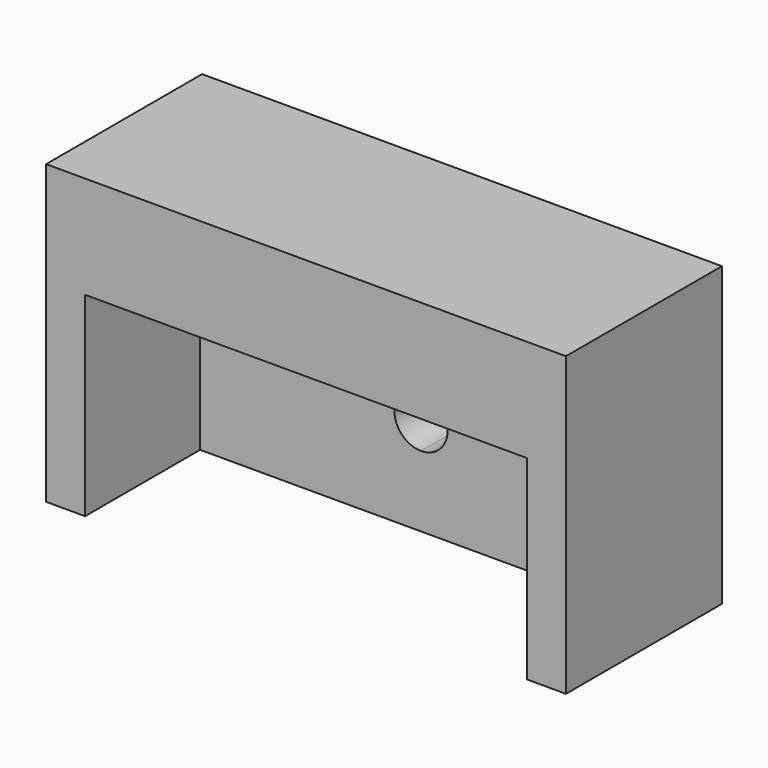
from build123d import *

# Parameters (mm, degrees)
F0_W     = 50.8
F0_H     = 19.05
F1_DEPTH = 10
F3_DEPTH = 6
F5_DEPTH = 19.05
F7_DEPTH = 5


with BuildPart() as f1:
    # F0 (on Top) → F1 (new body)
    with BuildSketch(Plane.XY):
        Rectangle(F0_W, F0_H)
    extrude(amount=F1_DEPTH)

    # F2 (on face) → F3 (cut)
    with BuildSketch(Plane(origin=(0, 0, 0), x_dir=(1, 0, 0), z_dir=(0, 0, -1))):
        with BuildLine():
            ThreePointArc((-12.875006, 0), (-16.050006, 3.175), (-19.225006, 0))
            Line((-19.225006, 0), (-12.875006, 0))
        make_face()
        with BuildLine():
            ThreePointArc((19.225006, 0), (16.050006, 3.175), (12.875006, 0))
            Line((12.875006, 0), (19.225006, 0))
        make_face()
        with BuildLine():
            Line((19.225006, 0), (12.875006, 0))
            ThreePointArc((12.875006, 0), (16.050006, -3.175), (19.225006, 0))
        make_face()
        with BuildLine():
            Line((-12.875006, 0), (-19.225006, 0))
            ThreePointArc((-19.225006, 0), (-16.050006, -3.175), (-12.875006, 0))
        make_face()
    extrude(amount=-F3_DEPTH, mode=Mode.SUBTRACT)

    # F4 (on face) → F5 (join)
    with BuildSketch(Plane(origin=(0, 0, 0), x_dir=(1, 0, 0), z_dir=(0, 0, -1))):
        Polygon((-25.4, -4.525), (-25.4, -9.525), (-2.5, -9.525), (2.5, -9.525), (25.4, -9.525), (25.4, -4.525), (25.4, 9.525), (21.59, 9.525), (21.59, -4.525), (-2.5, -4.525), (-21.59, -4.525), (-21.59, 9.525), (-25.4, 9.525), align=None)
    extrude(amount=F5_DEPTH)

    # F6 (on face) → F7 (cut, through all)
    with BuildSketch(Plane(origin=(0, 9.525, 0), x_dir=(-1, 0, 0), z_dir=(0, 1, 0))):
        with BuildLine():
            Line((0, -9.525), (2.6, -9.525))
            ThreePointArc((2.6, -9.525), (1.838478, -7.686522), (0, -6.925))
            Line((0, -6.925), (0, -9.525))
        make_face()
        with BuildLine():
            ThreePointArc((0, -12.125), (1.838478, -11.363478), (2.6, -9.525))
            Line((2.6, -9.525), (0, -9.525))
            Line((0, -9.525), (0, -12.125))
        make_face()
        with BuildLine():
            Line((0, -9.525), (0, -6.925))
            ThreePointArc((0, -6.925), (-1.838478, -7.686522), (-2.6, -9.525))
            Line((-2.6, -9.525), (0, -9.525))
        make_face()
        with BuildLine():
            ThreePointArc((-2.6, -9.525), (-1.838478, -11.363478), (0, -12.125))
            Line((0, -12.125), (0, -9.525))
            Line((0, -9.525), (-2.6, -9.525))
        make_face()
    extrude(amount=-F7_DEPTH, mode=Mode.SUBTRACT)


solid = f1.part
